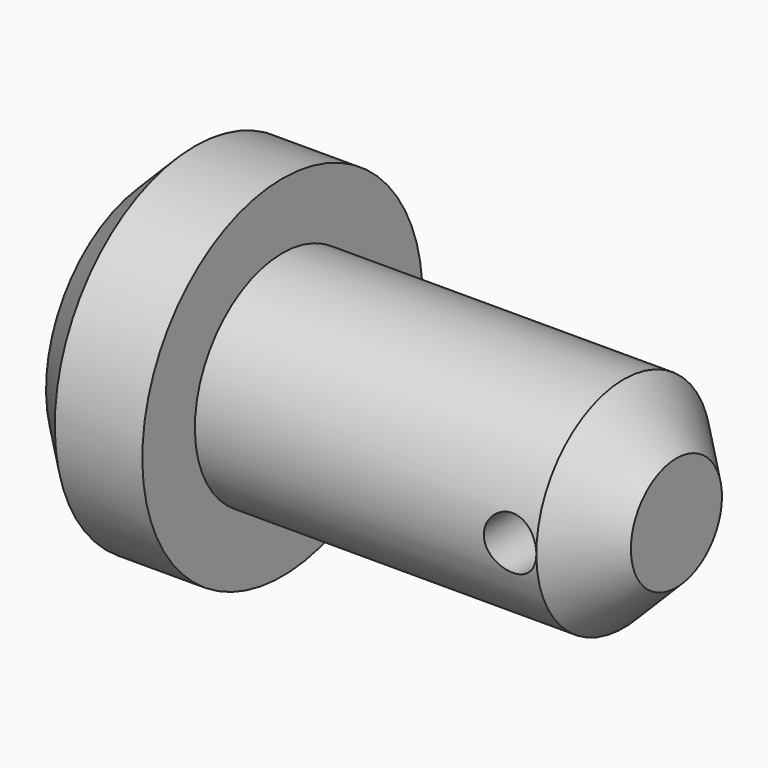
from build123d import *

# Parameters (mm, degrees)
F2_SIZE2 = 10
F2_SIZE  = 10
F3_DEPTH = 25
F4_SIZE2 = 12
F4_SIZE  = 12


with BuildPart() as f1:
    # F0 (on Front) → F1 (revolve)
    with BuildSketch(Plane.XZ):
        Polygon((0, 40), (0, 0), (30, 0), (30, 25), (30, 40), align=None)
        with BuildLine():
            Line((30, 25), (30, 0))
            Line((30, 0), (96, 0))
            ThreePointArc((96, 0), (102, 6), (108, 0))
            Line((108, 0), (120, 0))
            Line((120, 0), (120, 25))
            Line((120, 25), (30, 25))
        make_face()
        with BuildLine():
            ThreePointArc((108, 0), (102, 6), (96, 0))
            Line((96, 0), (108, 0))
        make_face()
        with BuildLine():
            Line((108, 0), (96, 0))
            ThreePointArc((96, 0), (102, -6), (108, 0))
        make_face()
    revolve(axis=Axis((75, 0, 0), (1, 0, 0)))

    # F2
    f2_edges = [f1.edges().sort_by_distance(p)[0] for p in [
        (0, 0, -40),
    ]]
    chamfer(f2_edges, length=F2_SIZE, length2=F2_SIZE2)

    # F0 (on Front) → F3 (cut, symmetric)
    with BuildSketch(Plane.XZ):
        with BuildLine():
            ThreePointArc((108, 0), (102, 6), (96, 0))
            Line((96, 0), (108, 0))
        make_face()
        with BuildLine():
            Line((108, 0), (96, 0))
            ThreePointArc((96, 0), (102, -6), (108, 0))
        make_face()
    extrude(amount=F3_DEPTH, both=True, mode=Mode.SUBTRACT)

    # F4
    f4_edges = [f1.edges().sort_by_distance(p)[0] for p in [
        (120, 0, -25),
    ]]
    chamfer(f4_edges, length=F4_SIZE, length2=F4_SIZE2)


solid = f1.part
